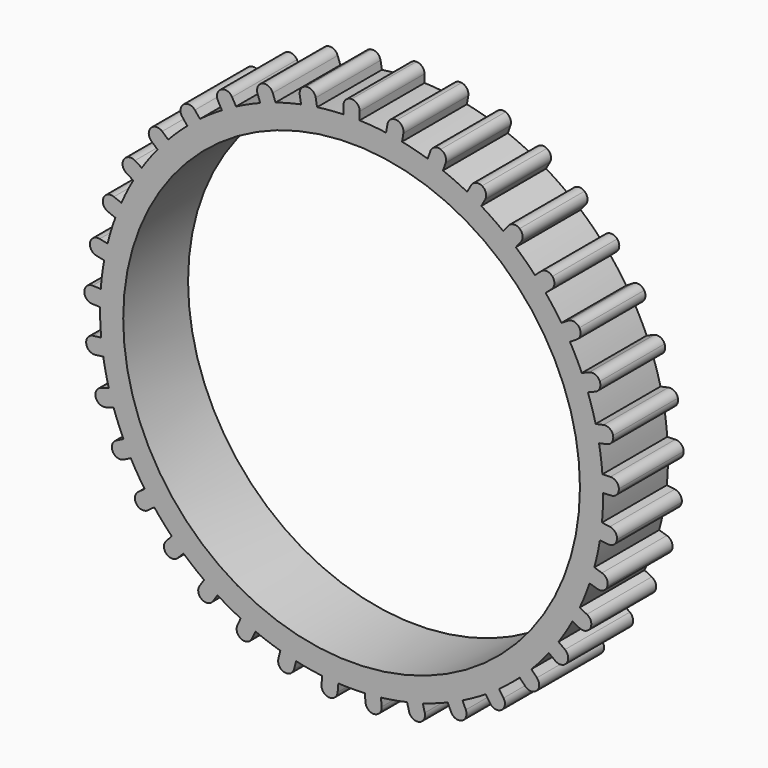
from build123d import *

# Parameters (mm, degrees)
F0_R     = 14.085722
F1_DEPTH = 5


with BuildPart() as f1:
    # F0 (on Front) → F1 (new body)
    with BuildSketch(Plane.XZ):
        with BuildLine():
            Line((-14.069211, 3.543627), (-15.052334, 3.755506))
            ThreePointArc((-15.052334, 3.755506), (-15.165552, 3.268427), (-15.263013, 2.777951))
            Line((-15.263013, 2.777951), (-14.279891, 2.566072))
            Line((-14.279891, 2.566072), (-14.069211, 3.543627))
        make_face()
        with BuildLine():
            ThreePointArc((15.513755, 0), (15.513552, 0.079266), (15.512945, 0.158531))
            Line((15.512945, 0.158531), (14.508156, 0.115848))
            Line((14.508156, 0.115848), (14.465714, 1.114947))
            Line((14.465714, 1.114947), (15.470504, 1.15763))
            ThreePointArc((15.470504, 1.15763), (15.3881, 1.970523), (15.263013, 2.777951))
            Line((15.263013, 2.777951), (14.279891, 2.566072))
            Line((14.279891, 2.566072), (14.069211, 3.543627))
            Line((14.069211, 3.543627), (15.052334, 3.755506))
            ThreePointArc((15.052334, 3.755506), (14.833736, 4.542781), (14.573993, 5.317454))
            Line((14.573993, 5.317454), (13.640819, 4.942474))
            Line((13.640819, 4.942474), (13.267963, 5.870363))
            Line((13.267963, 5.870363), (14.201136, 6.245343))
            ThreePointArc((14.201136, 6.245343), (13.852633, 6.984351), (13.465705, 7.703984))
            Line((13.465705, 7.703984), (12.609326, 7.176691))
            Line((12.609326, 7.176691), (12.085019, 8.02822))
            Line((12.085019, 8.02822), (12.941398, 8.555514))
            ThreePointArc((12.941398, 8.555514), (12.473014, 9.224993), (11.970033, 9.868885))
            Line((11.970033, 9.868885), (11.215086, 9.204447))
            Line((11.215086, 9.204447), (10.554411, 9.95512))
            Line((10.554411, 9.95512), (11.309359, 10.619557))
            ThreePointArc((11.309359, 10.619557), (10.73457, 11.20025), (10.130006, 11.749875))
            Line((10.130006, 11.749875), (9.498208, 10.967408))
            Line((9.498208, 10.967408), (8.720172, 11.595628))
            Line((8.720172, 11.595628), (9.35197, 12.378095))
            ThreePointArc((9.35197, 12.378095), (8.687312, 12.853296), (7.998556, 13.292843))
            Line((7.998556, 13.292843), (7.508084, 12.414857))
            Line((7.508084, 12.414857), (6.63507, 12.902552))
            Line((6.63507, 12.902552), (7.125542, 13.780538))
            ThreePointArc((7.125542, 13.780538), (6.390135, 14.136575), (5.637003, 14.453401))
            Line((5.637003, 14.453401), (5.301966, 13.505153))
            Line((5.301966, 13.505153), (4.359088, 13.838293))
            Line((4.359088, 13.838293), (4.694125, 14.78654))
            ThreePointArc((4.694125, 14.78654), (3.909126, 15.013172), (3.113283, 15.19816))
            Line((3.113283, 15.19816), (2.94332, 14.20693))
            Line((2.94332, 14.20693), (1.957704, 14.375931))
            Line((1.957704, 14.375931), (2.127667, 15.367161))
            ThreePointArc((2.127667, 15.367161), (1.315658, 15.457866), (0.5, 15.505695))
            Line((0.5, 15.505695), (0.5, 14.5))
            Line((0.5, 14.5), (-0.5, 14.5))
            Line((-0.5, 14.5), (-0.5, 15.505695))
            ThreePointArc((-0.5, 15.505695), (-1.315658, 15.457866), (-2.127667, 15.367161))
            Line((-2.127667, 15.367161), (-1.957704, 14.375931))
            Line((-1.957704, 14.375931), (-2.94332, 14.20693))
            Line((-2.94332, 14.20693), (-3.113283, 15.19816))
            ThreePointArc((-3.113283, 15.19816), (-3.909126, 15.013172), (-4.694125, 14.78654))
            Line((-4.694125, 14.78654), (-4.359088, 13.838293))
            Line((-4.359088, 13.838293), (-5.301966, 13.505153))
            Line((-5.301966, 13.505153), (-5.637003, 14.453401))
            ThreePointArc((-5.637003, 14.453401), (-6.390135, 14.136575), (-7.125542, 13.780538))
            Line((-7.125542, 13.780538), (-6.63507, 12.902552))
            Line((-6.63507, 12.902552), (-7.508084, 12.414857))
            Line((-7.508084, 12.414857), (-7.998556, 13.292843))
            ThreePointArc((-7.998556, 13.292843), (-8.687312, 12.853296), (-9.35197, 12.378095))
            Line((-9.35197, 12.378095), (-8.720172, 11.595628))
            Line((-8.720172, 11.595628), (-9.498208, 10.967408))
            Line((-9.498208, 10.967408), (-10.130006, 11.749875))
            ThreePointArc((-10.130006, 11.749875), (-10.73457, 11.20025), (-11.309359, 10.619557))
            Line((-11.309359, 10.619557), (-10.554411, 9.95512))
            Line((-10.554411, 9.95512), (-11.215086, 9.204447))
            Line((-11.215086, 9.204447), (-11.970033, 9.868885))
            ThreePointArc((-11.970033, 9.868885), (-12.473014, 9.224993), (-12.941398, 8.555514))
            Line((-12.941398, 8.555514), (-12.085019, 8.02822))
            Line((-12.085019, 8.02822), (-12.609326, 7.176691))
            Line((-12.609326, 7.176691), (-13.465705, 7.703984))
            ThreePointArc((-13.465705, 7.703984), (-13.852633, 6.984351), (-14.201136, 6.245343))
            Line((-14.201136, 6.245343), (-13.267963, 5.870363))
            Line((-13.267963, 5.870363), (-13.640819, 4.942474))
            Line((-13.640819, 4.942474), (-14.573993, 5.317454))
            ThreePointArc((-14.573993, 5.317454), (-14.833736, 4.542781), (-15.052334, 3.755506))
            Line((-15.052334, 3.755506), (-14.069211, 3.543627))
            Line((-14.069211, 3.543627), (-14.279891, 2.566072))
            Line((-14.279891, 2.566072), (-15.263013, 2.777951))
            ThreePointArc((-15.263013, 2.777951), (-15.3881, 1.970523), (-15.470504, 1.15763))
            Line((-15.470504, 1.15763), (-14.465714, 1.114947))
            Line((-14.465714, 1.114947), (-14.508156, 0.115848))
            Line((-14.508156, 0.115848), (-15.512945, 0.158531))
            ThreePointArc((-15.512945, 0.158531), (-15.499776, -0.658422), (-15.443615, -1.473549))
            Line((-15.443615, -1.473549), (-14.446065, -1.345808))
            Line((-14.446065, -1.345808), (-14.319047, -2.337709))
            Line((-14.319047, -2.337709), (-15.316597, -2.46545))
            ThreePointArc((-15.316597, -2.46545), (-15.165552, -3.268427), (-14.972442, -4.062337))
            Line((-14.972442, -4.062337), (-14.010829, -3.767847))
            Line((-14.010829, -3.767847), (-13.718006, -4.724014))
            Line((-13.718006, -4.724014), (-14.679619, -5.018504))
            ThreePointArc((-14.679619, -5.018504), (-14.395043, -5.784404), (-14.070538, -6.534259))
            Line((-14.070538, -6.534259), (-13.172527, -6.081491))
            Line((-13.172527, -6.081491), (-12.722323, -6.974417))
            Line((-12.722323, -6.974417), (-13.620335, -7.427185))
            ThreePointArc((-13.620335, -7.427185), (-13.210414, -8.133975), (-12.763851, -8.818202))
            Line((-12.763851, -8.818202), (-11.955275, -8.220182))
            Line((-11.955275, -8.220182), (-11.360642, -9.02418))
            Line((-11.360642, -9.02418), (-12.169218, -9.622199))
            ThreePointArc((-12.169218, -9.622199), (-11.645746, -10.249546), (-11.089971, -10.848462))
            Line((-11.089971, -10.848462), (-10.394092, -10.122394))
            Line((-10.394092, -10.122394), (-9.672136, -10.814333))
            Line((-9.672136, -10.814333), (-10.368015, -11.540401))
            ThreePointArc((-10.368015, -11.540401), (-9.746051, -12.070256), (-9.097053, -12.566631))
            Line((-9.097053, -12.566631), (-8.533889, -11.733403))
            Line((-8.533889, -11.733403), (-7.70538, -12.293377))
            Line((-7.70538, -12.293377), (-8.268544, -13.126606))
            ThreePointArc((-8.268544, -13.126606), (-7.56598, -13.543727), (-6.84243, -13.923281))
            Line((-6.84243, -13.923281), (-6.428182, -13.006862))
            Line((-6.428182, -13.006862), (-5.516954, -13.418764))
            Line((-5.516954, -13.418764), (-5.931201, -14.335182))
            ThreePointArc((-5.931201, -14.335182), (-5.168249, -14.62757), (-4.390962, -14.879383))
            Line((-4.390962, -14.879383), (-4.137548, -13.906139))
            Line((-4.137548, -13.906139), (-3.169815, -14.158117))
            Line((-3.169815, -14.158117), (-3.423229, -15.131361))
            ThreePointArc((-3.423229, -15.131361), (-2.621837, -15.290604), (-1.813174, -15.407433))
            Line((-1.813174, -15.407433), (-1.727885, -14.405361))
            Line((-1.727885, -14.405361), (-0.731487, -14.490167))
            Line((-0.731487, -14.490167), (-0.816776, -15.492239))
            ThreePointArc((-0.816776, -15.492239), (0, -15.513755), (0.816776, -15.492239))
            Line((0.816776, -15.492239), (0.731487, -14.490167))
            Line((0.731487, -14.490167), (1.727885, -14.405361))
            Line((1.727885, -14.405361), (1.813174, -15.407433))
            ThreePointArc((1.813174, -15.407433), (2.621837, -15.290604), (3.423229, -15.131361))
            Line((3.423229, -15.131361), (3.169815, -14.158117))
            Line((3.169815, -14.158117), (4.137548, -13.906139))
            Line((4.137548, -13.906139), (4.390962, -14.879383))
            ThreePointArc((4.390962, -14.879383), (5.168249, -14.62757), (5.931201, -14.335182))
            Line((5.931201, -14.335182), (5.516954, -13.418764))
            Line((5.516954, -13.418764), (6.428182, -13.006862))
            Line((6.428182, -13.006862), (6.84243, -13.923281))
            ThreePointArc((6.84243, -13.923281), (7.56598, -13.543727), (8.268544, -13.126606))
            Line((8.268544, -13.126606), (7.70538, -12.293377))
            Line((7.70538, -12.293377), (8.533889, -11.733403))
            Line((8.533889, -11.733403), (9.097053, -12.566631))
            ThreePointArc((9.097053, -12.566631), (9.746051, -12.070256), (10.368015, -11.540401))
            Line((10.368015, -11.540401), (9.672136, -10.814333))
            Line((9.672136, -10.814333), (10.394092, -10.122394))
            Line((10.394092, -10.122394), (11.089971, -10.848462))
            ThreePointArc((11.089971, -10.848462), (11.645746, -10.249546), (12.169218, -9.622199))
            Line((12.169218, -9.622199), (11.360642, -9.02418))
            Line((11.360642, -9.02418), (11.955275, -8.220182))
            Line((11.955275, -8.220182), (12.763851, -8.818202))
            ThreePointArc((12.763851, -8.818202), (13.210414, -8.133975), (13.620335, -7.427185))
            Line((13.620335, -7.427185), (12.722323, -6.974417))
            Line((12.722323, -6.974417), (13.172527, -6.081491))
            Line((13.172527, -6.081491), (14.070538, -6.534259))
            ThreePointArc((14.070538, -6.534259), (14.395043, -5.784404), (14.679619, -5.018504))
            Line((14.679619, -5.018504), (13.718006, -4.724014))
            Line((13.718006, -4.724014), (14.010829, -3.767847))
            Line((14.010829, -3.767847), (14.972442, -4.062337))
            ThreePointArc((14.972442, -4.062337), (15.165552, -3.268427), (15.316597, -2.46545))
            Line((15.316597, -2.46545), (14.319047, -2.337709))
            Line((14.319047, -2.337709), (14.446065, -1.345808))
            Line((14.446065, -1.345808), (15.443615, -1.473549))
            ThreePointArc((15.443615, -1.473549), (15.49621, -0.737609), (15.513755, 0))
        make_face()
        Circle(F0_R, mode=Mode.SUBTRACT)
        with BuildLine():
            Line((-13.267963, 5.870363), (-14.201136, 6.245343))
            ThreePointArc((-14.201136, 6.245343), (-14.395043, 5.784404), (-14.573993, 5.317454))
            Line((-14.573993, 5.317454), (-13.640819, 4.942474))
            Line((-13.640819, 4.942474), (-13.267963, 5.870363))
        make_face()
        with BuildLine():
            ThreePointArc((-14.659796, 6.429648), (-15.042458, 6.425587), (-15.310169, 6.152132))
            ThreePointArc((-15.310169, 6.152132), (-15.306107, 5.76947), (-15.032653, 5.501759))
            Line((-15.032653, 5.501759), (-14.573993, 5.317454))
            ThreePointArc((-14.573993, 5.317454), (-14.395043, 5.784404), (-14.201136, 6.245343))
            Line((-14.201136, 6.245343), (-14.659796, 6.429648))
        make_face()
        with BuildLine():
            ThreePointArc((-15.535544, 3.859646), (-15.912015, 3.790973), (-16.129661, 3.476208))
            ThreePointArc((-16.129661, 3.476208), (-16.060988, 3.099737), (-15.746223, 2.882091))
            Line((-15.746223, 2.882091), (-15.263013, 2.777951))
            ThreePointArc((-15.263013, 2.777951), (-15.165552, 3.268427), (-15.052334, 3.755506))
            Line((-15.052334, 3.755506), (-15.535544, 3.859646))
        make_face()
        with BuildLine():
            ThreePointArc((-13.362313, 8.814681), (-13.740157, 8.875348), (-14.050231, 8.65107))
            ThreePointArc((-14.050231, 8.65107), (-14.110898, 8.273226), (-13.88662, 7.963152))
            Line((-13.88662, 7.963152), (-13.465705, 7.703984))
            ThreePointArc((-13.465705, 7.703984), (-13.210414, 8.133975), (-12.941398, 8.555514))
            Line((-12.941398, 8.555514), (-13.362313, 8.814681))
        make_face()
        with BuildLine():
            Line((-12.085019, 8.02822), (-12.941398, 8.555514))
            ThreePointArc((-12.941398, 8.555514), (-13.210414, 8.133975), (-13.465705, 7.703984))
            Line((-13.465705, 7.703984), (-12.609326, 7.176691))
            Line((-12.609326, 7.176691), (-12.085019, 8.02822))
        make_face()
        with BuildLine():
            Line((-10.554411, 9.95512), (-11.309359, 10.619557))
            ThreePointArc((-11.309359, 10.619557), (-11.645746, 10.249546), (-11.970033, 9.868885))
            Line((-11.970033, 9.868885), (-11.215086, 9.204447))
            Line((-11.215086, 9.204447), (-10.554411, 9.95512))
        make_face()
        with BuildLine():
            ThreePointArc((-11.68042, 10.946132), (-12.042576, 11.069782), (-12.386093, 10.901133))
            ThreePointArc((-12.386093, 10.901133), (-12.509743, 10.538977), (-12.341094, 10.195459))
            Line((-12.341094, 10.195459), (-11.970033, 9.868885))
            ThreePointArc((-11.970033, 9.868885), (-11.645746, 10.249546), (-11.309359, 10.619557))
            Line((-11.309359, 10.619557), (-11.68042, 10.946132))
        make_face()
        with BuildLine():
            ThreePointArc((-9.662502, 12.762682), (-9.998552, 12.945759), (-10.36563, 12.83759))
            ThreePointArc((-10.36563, 12.83759), (-10.548706, 12.50154), (-10.440538, 12.134462))
            Line((-10.440538, 12.134462), (-10.130006, 11.749875))
            ThreePointArc((-10.130006, 11.749875), (-9.746051, 12.070256), (-9.35197, 12.378095))
            Line((-9.35197, 12.378095), (-9.662502, 12.762682))
        make_face()
        with BuildLine():
            Line((-8.720172, 11.595628), (-9.35197, 12.378095))
            ThreePointArc((-9.35197, 12.378095), (-9.746051, 12.070256), (-10.130006, 11.749875))
            Line((-10.130006, 11.749875), (-9.498208, 10.967408))
            Line((-9.498208, 10.967408), (-8.720172, 11.595628))
        make_face()
        with BuildLine():
            Line((-6.63507, 12.902552), (-7.125542, 13.780538))
            ThreePointArc((-7.125542, 13.780538), (-7.56598, 13.543727), (-7.998556, 13.292843))
            Line((-7.998556, 13.292843), (-7.508084, 12.414857))
            Line((-7.508084, 12.414857), (-6.63507, 12.902552))
        make_face()
        with BuildLine():
            ThreePointArc((-7.366612, 14.212073), (-7.666888, 14.449309), (-8.046967, 14.404733))
            ThreePointArc((-8.046967, 14.404733), (-8.284202, 14.104457), (-8.239626, 13.724378))
            Line((-8.239626, 13.724378), (-7.998556, 13.292843))
            ThreePointArc((-7.998556, 13.292843), (-7.56598, 13.543727), (-7.125542, 13.780538))
            Line((-7.125542, 13.780538), (-7.366612, 14.212073))
        make_face()
        with BuildLine():
            ThreePointArc((-4.858798, 15.252609), (-5.114662, 15.537179), (-5.496807, 15.557478))
            ThreePointArc((-5.496807, 15.557478), (-5.781377, 15.301614), (-5.801675, 14.919469))
            Line((-5.801675, 14.919469), (-5.637003, 14.453401))
            ThreePointArc((-5.637003, 14.453401), (-5.168249, 14.62757), (-4.694125, 14.78654))
            Line((-4.694125, 14.78654), (-4.858798, 15.252609))
        make_face()
        with BuildLine():
            Line((-4.359088, 13.838293), (-4.694125, 14.78654))
            ThreePointArc((-4.694125, 14.78654), (-5.168249, 14.62757), (-5.637003, 14.453401))
            Line((-5.637003, 14.453401), (-5.301966, 13.505153))
            Line((-5.301966, 13.505153), (-4.359088, 13.838293))
        make_face()
        with BuildLine():
            Line((-1.957704, 14.375931), (-2.127667, 15.367161))
            ThreePointArc((-2.127667, 15.367161), (-2.621837, 15.290604), (-3.113283, 15.19816))
            Line((-3.113283, 15.19816), (-2.94332, 14.20693))
            Line((-2.94332, 14.20693), (-1.957704, 14.375931))
        make_face()
        with BuildLine():
            ThreePointArc((-2.211205, 15.854355), (-2.415296, 16.178073), (-2.788514, 16.262663))
            ThreePointArc((-2.788514, 16.262663), (-3.112232, 16.058572), (-3.196821, 15.685354))
            Line((-3.196821, 15.685354), (-3.113283, 15.19816))
            ThreePointArc((-3.113283, 15.19816), (-2.621837, 15.290604), (-2.127667, 15.367161))
            Line((-2.127667, 15.367161), (-2.211205, 15.854355))
        make_face()
        with BuildLine():
            ThreePointArc((0.5, 16), (0.353553, 16.353553), (0, 16.5))
            ThreePointArc((0, 16.5), (-0.353553, 16.353553), (-0.5, 16))
            Line((-0.5, 16), (-0.5, 15.505695))
            ThreePointArc((-0.5, 15.505695), (0, 15.513755), (0.5, 15.505695))
            Line((0.5, 15.505695), (0.5, 16))
        make_face()
        with BuildLine():
            ThreePointArc((0.5, 15.505695), (0, 15.513755), (-0.5, 15.505695))
            Line((-0.5, 15.505695), (-0.5, 14.5))
            Line((-0.5, 14.5), (0.5, 14.5))
            Line((0.5, 14.5), (0.5, 15.505695))
        make_face()
        with BuildLine():
            Line((2.94332, 14.20693), (3.113283, 15.19816))
            ThreePointArc((3.113283, 15.19816), (2.621837, 15.290604), (2.127667, 15.367161))
            Line((2.127667, 15.367161), (1.957704, 14.375931))
            Line((1.957704, 14.375931), (2.94332, 14.20693))
        make_face()
        with BuildLine():
            ThreePointArc((3.196821, 15.685354), (3.112232, 16.058572), (2.788514, 16.262663))
            ThreePointArc((2.788514, 16.262663), (2.415296, 16.178073), (2.211205, 15.854355))
            Line((2.211205, 15.854355), (2.127667, 15.367161))
            ThreePointArc((2.127667, 15.367161), (2.621837, 15.290604), (3.113283, 15.19816))
            Line((3.113283, 15.19816), (3.196821, 15.685354))
        make_face()
        with BuildLine():
            ThreePointArc((5.801675, 14.919469), (5.781377, 15.301614), (5.496807, 15.557478))
            ThreePointArc((5.496807, 15.557478), (5.114662, 15.537179), (4.858798, 15.252609))
            Line((4.858798, 15.252609), (4.694125, 14.78654))
            ThreePointArc((4.694125, 14.78654), (5.168249, 14.62757), (5.637003, 14.453401))
            Line((5.637003, 14.453401), (5.801675, 14.919469))
        make_face()
        with BuildLine():
            Line((5.301966, 13.505153), (5.637003, 14.453401))
            ThreePointArc((5.637003, 14.453401), (5.168249, 14.62757), (4.694125, 14.78654))
            Line((4.694125, 14.78654), (4.359088, 13.838293))
            Line((4.359088, 13.838293), (5.301966, 13.505153))
        make_face()
        with BuildLine():
            Line((7.508084, 12.414857), (7.998556, 13.292843))
            ThreePointArc((7.998556, 13.292843), (7.56598, 13.543727), (7.125542, 13.780538))
            Line((7.125542, 13.780538), (6.63507, 12.902552))
            Line((6.63507, 12.902552), (7.508084, 12.414857))
        make_face()
        with BuildLine():
            ThreePointArc((8.239626, 13.724378), (8.284202, 14.104457), (8.046967, 14.404733))
            ThreePointArc((8.046967, 14.404733), (7.666888, 14.449309), (7.366612, 14.212073))
            Line((7.366612, 14.212073), (7.125542, 13.780538))
            ThreePointArc((7.125542, 13.780538), (7.56598, 13.543727), (7.998556, 13.292843))
            Line((7.998556, 13.292843), (8.239626, 13.724378))
        make_face()
        with BuildLine():
            ThreePointArc((10.440538, 12.134462), (10.548706, 12.50154), (10.36563, 12.83759))
            ThreePointArc((10.36563, 12.83759), (9.998552, 12.945759), (9.662502, 12.762682))
            Line((9.662502, 12.762682), (9.35197, 12.378095))
            ThreePointArc((9.35197, 12.378095), (9.746051, 12.070256), (10.130006, 11.749875))
            Line((10.130006, 11.749875), (10.440538, 12.134462))
        make_face()
        with BuildLine():
            Line((9.498208, 10.967408), (10.130006, 11.749875))
            ThreePointArc((10.130006, 11.749875), (9.746051, 12.070256), (9.35197, 12.378095))
            Line((9.35197, 12.378095), (8.720172, 11.595628))
            Line((8.720172, 11.595628), (9.498208, 10.967408))
        make_face()
        with BuildLine():
            Line((11.215086, 9.204447), (11.970033, 9.868885))
            ThreePointArc((11.970033, 9.868885), (11.645746, 10.249546), (11.309359, 10.619557))
            Line((11.309359, 10.619557), (10.554411, 9.95512))
            Line((10.554411, 9.95512), (11.215086, 9.204447))
        make_face()
        with BuildLine():
            ThreePointArc((12.341094, 10.195459), (12.509743, 10.538977), (12.386093, 10.901133))
            ThreePointArc((12.386093, 10.901133), (12.042576, 11.069782), (11.68042, 10.946132))
            Line((11.68042, 10.946132), (11.309359, 10.619557))
            ThreePointArc((11.309359, 10.619557), (11.645746, 10.249546), (11.970033, 9.868885))
            Line((11.970033, 9.868885), (12.341094, 10.195459))
        make_face()
        with BuildLine():
            ThreePointArc((13.88662, 7.963152), (14.110898, 8.273226), (14.050231, 8.65107))
            ThreePointArc((14.050231, 8.65107), (13.740157, 8.875348), (13.362313, 8.814681))
            Line((13.362313, 8.814681), (12.941398, 8.555514))
            ThreePointArc((12.941398, 8.555514), (13.210414, 8.133975), (13.465705, 7.703984))
            Line((13.465705, 7.703984), (13.88662, 7.963152))
        make_face()
        with BuildLine():
            Line((12.609326, 7.176691), (13.465705, 7.703984))
            ThreePointArc((13.465705, 7.703984), (13.210414, 8.133975), (12.941398, 8.555514))
            Line((12.941398, 8.555514), (12.085019, 8.02822))
            Line((12.085019, 8.02822), (12.609326, 7.176691))
        make_face()
        with BuildLine():
            Line((-14.465714, 1.114947), (-15.470504, 1.15763))
            ThreePointArc((-15.470504, 1.15763), (-15.499776, 0.658422), (-15.512945, 0.158531))
            Line((-15.512945, 0.158531), (-14.508156, 0.115848))
            Line((-14.508156, 0.115848), (-14.465714, 1.114947))
        make_face()
        with BuildLine():
            ThreePointArc((-15.964363, 1.178609), (-16.323813, 1.047299), (-16.485133, 0.70028))
            ThreePointArc((-16.485133, 0.70028), (-16.353824, 0.34083), (-16.006804, 0.17951))
            Line((-16.006804, 0.17951), (-15.512945, 0.158531))
            ThreePointArc((-15.512945, 0.158531), (-15.499776, 0.658422), (-15.470504, 1.15763))
            Line((-15.470504, 1.15763), (-15.964363, 1.178609))
        make_face()
        with BuildLine():
            ThreePointArc((-15.933916, -1.536335), (-16.266004, -1.726503), (-16.366357, -2.095794))
            ThreePointArc((-16.366357, -2.095794), (-16.176189, -2.427882), (-15.806898, -2.528235))
            Line((-15.806898, -2.528235), (-15.316597, -2.46545))
            ThreePointArc((-15.316597, -2.46545), (-15.3881, -1.970523), (-15.443615, -1.473549))
            Line((-15.443615, -1.473549), (-15.933916, -1.536335))
        make_face()
        with BuildLine():
            Line((-14.446065, -1.345808), (-15.443615, -1.473549))
            ThreePointArc((-15.443615, -1.473549), (-15.3881, -1.970523), (-15.316597, -2.46545))
            Line((-15.316597, -2.46545), (-14.319047, -2.337709))
            Line((-14.319047, -2.337709), (-14.446065, -1.345808))
        make_face()
        with BuildLine():
            Line((-14.010829, -3.767847), (-14.972442, -4.062337))
            ThreePointArc((-14.972442, -4.062337), (-14.833736, -4.542781), (-14.679619, -5.018504))
            Line((-14.679619, -5.018504), (-13.718006, -4.724014))
            Line((-13.718006, -4.724014), (-14.010829, -3.767847))
        make_face()
        with BuildLine():
            ThreePointArc((-15.445079, -4.207081), (-15.740252, -4.450637), (-15.776751, -4.831576))
            ThreePointArc((-15.776751, -4.831576), (-15.533195, -5.126749), (-15.152256, -5.163248))
            Line((-15.152256, -5.163248), (-14.679619, -5.018504))
            ThreePointArc((-14.679619, -5.018504), (-14.833736, -4.542781), (-14.972442, -4.062337))
            Line((-14.972442, -4.062337), (-15.445079, -4.207081))
        make_face()
        with BuildLine():
            ThreePointArc((-14.511916, -6.756797), (-14.761682, -7.046734), (-14.733277, -7.428362))
            ThreePointArc((-14.733277, -7.428362), (-14.44334, -7.678128), (-14.061712, -7.649723))
            Line((-14.061712, -7.649723), (-13.620335, -7.427185))
            ThreePointArc((-13.620335, -7.427185), (-13.852633, -6.984351), (-14.070538, -6.534259))
            Line((-14.070538, -6.534259), (-14.511916, -6.756797))
        make_face()
        with BuildLine():
            Line((-13.172527, -6.081491), (-14.070538, -6.534259))
            ThreePointArc((-14.070538, -6.534259), (-13.852633, -6.984351), (-13.620335, -7.427185))
            Line((-13.620335, -7.427185), (-12.722323, -6.974417))
            Line((-12.722323, -6.974417), (-13.172527, -6.081491))
        make_face()
        with BuildLine():
            Line((-11.955275, -8.220182), (-12.763851, -8.818202))
            ThreePointArc((-12.763851, -8.818202), (-12.473014, -9.224993), (-12.169218, -9.622199))
            Line((-12.169218, -9.622199), (-11.360642, -9.02418))
            Line((-11.360642, -9.02418), (-11.955275, -8.220182))
        make_face()
        with BuildLine():
            ThreePointArc((-13.161271, -9.112132), (-13.358445, -9.440109), (-13.265953, -9.811447))
            ThreePointArc((-13.265953, -9.811447), (-12.937975, -10.008621), (-12.566637, -9.916129))
            Line((-12.566637, -9.916129), (-12.169218, -9.622199))
            ThreePointArc((-12.169218, -9.622199), (-12.473014, -9.224993), (-12.763851, -8.818202))
            Line((-12.763851, -8.818202), (-13.161271, -9.112132))
        make_face()
        with BuildLine():
            ThreePointArc((-11.432, -11.205328), (-11.570909, -11.56191), (-11.416991, -11.912276))
            ThreePointArc((-11.416991, -11.912276), (-11.060409, -12.051185), (-10.710044, -11.897267))
            Line((-10.710044, -11.897267), (-10.368015, -11.540401))
            ThreePointArc((-10.368015, -11.540401), (-10.73457, -11.20025), (-11.089971, -10.848462))
            Line((-11.089971, -10.848462), (-11.432, -11.205328))
        make_face()
        with BuildLine():
            Line((-10.394092, -10.122394), (-11.089971, -10.848462))
            ThreePointArc((-11.089971, -10.848462), (-10.73457, -11.20025), (-10.368015, -11.540401))
            Line((-10.368015, -11.540401), (-9.672136, -10.814333))
            Line((-9.672136, -10.814333), (-10.394092, -10.122394))
        make_face()
        with BuildLine():
            Line((-8.533889, -11.733403), (-9.097053, -12.566631))
            ThreePointArc((-9.097053, -12.566631), (-8.687312, -12.853296), (-8.268544, -13.126606))
            Line((-8.268544, -13.126606), (-7.70538, -12.293377))
            Line((-7.70538, -12.293377), (-8.533889, -11.733403))
        make_face()
        with BuildLine():
            ThreePointArc((-9.373851, -12.976167), (-9.4505, -13.351096), (-9.239584, -13.670409))
            ThreePointArc((-9.239584, -13.670409), (-8.864655, -13.747058), (-8.545342, -13.536142))
            Line((-8.545342, -13.536142), (-8.268544, -13.126606))
            ThreePointArc((-8.268544, -13.126606), (-8.687312, -12.853296), (-9.097053, -12.566631))
            Line((-9.097053, -12.566631), (-9.373851, -12.976167))
        make_face()
        with BuildLine():
            Line((-6.428182, -13.006862), (-6.84243, -13.923281))
            ThreePointArc((-6.84243, -13.923281), (-6.390135, -14.136575), (-5.931201, -14.335182))
            Line((-5.931201, -14.335182), (-5.516954, -13.418764))
            Line((-5.516954, -13.418764), (-6.428182, -13.006862))
        make_face()
        with BuildLine():
            ThreePointArc((-7.046034, -14.373705), (-7.058217, -14.756195), (-6.796371, -15.03527))
            ThreePointArc((-6.796371, -15.03527), (-6.413881, -15.047453), (-6.134806, -14.785606))
            Line((-6.134806, -14.785606), (-5.931201, -14.335182))
            ThreePointArc((-5.931201, -14.335182), (-6.390135, -14.136575), (-6.84243, -13.923281))
            Line((-6.84243, -13.923281), (-7.046034, -14.373705))
        make_face()
        with BuildLine():
            ThreePointArc((-4.515515, -15.357738), (-4.462882, -15.736785), (-4.157638, -15.967594))
            ThreePointArc((-4.157638, -15.967594), (-3.778591, -15.91496), (-3.547783, -15.609716))
            Line((-3.547783, -15.609716), (-3.423229, -15.131361))
            ThreePointArc((-3.423229, -15.131361), (-3.909126, -15.013172), (-4.390962, -14.879383))
            Line((-4.390962, -14.879383), (-4.515515, -15.357738))
        make_face()
        with BuildLine():
            Line((-4.137548, -13.906139), (-4.390962, -14.879383))
            ThreePointArc((-4.390962, -14.879383), (-3.909126, -15.013172), (-3.423229, -15.131361))
            Line((-3.423229, -15.131361), (-3.169815, -14.158117))
            Line((-3.169815, -14.158117), (-4.137548, -13.906139))
        make_face()
        with BuildLine():
            Line((-1.727885, -14.405361), (-1.813174, -15.407433))
            ThreePointArc((-1.813174, -15.407433), (-1.315658, -15.457866), (-0.816776, -15.492239))
            Line((-0.816776, -15.492239), (-0.731487, -14.490167))
            Line((-0.731487, -14.490167), (-1.727885, -14.405361))
        make_face()
        with BuildLine():
            ThreePointArc((-1.855094, -15.899957), (-1.739158, -16.264656), (-1.399298, -16.440559))
            ThreePointArc((-1.399298, -16.440559), (-1.034599, -16.324623), (-0.858696, -15.984763))
            Line((-0.858696, -15.984763), (-0.816776, -15.492239))
            ThreePointArc((-0.816776, -15.492239), (-1.315658, -15.457866), (-1.813174, -15.407433))
            Line((-1.813174, -15.407433), (-1.855094, -15.899957))
        make_face()
        with BuildLine():
            ThreePointArc((0.858696, -15.984763), (1.034599, -16.324623), (1.399298, -16.440559))
            ThreePointArc((1.399298, -16.440559), (1.739158, -16.264656), (1.855094, -15.899957))
            Line((1.855094, -15.899957), (1.813174, -15.407433))
            ThreePointArc((1.813174, -15.407433), (1.315658, -15.457866), (0.816776, -15.492239))
            Line((0.816776, -15.492239), (0.858696, -15.984763))
        make_face()
        with BuildLine():
            Line((0.731487, -14.490167), (0.816776, -15.492239))
            ThreePointArc((0.816776, -15.492239), (1.315658, -15.457866), (1.813174, -15.407433))
            Line((1.813174, -15.407433), (1.727885, -14.405361))
            Line((1.727885, -14.405361), (0.731487, -14.490167))
        make_face()
        with BuildLine():
            Line((3.169815, -14.158117), (3.423229, -15.131361))
            ThreePointArc((3.423229, -15.131361), (3.909126, -15.013172), (4.390962, -14.879383))
            Line((4.390962, -14.879383), (4.137548, -13.906139))
            Line((4.137548, -13.906139), (3.169815, -14.158117))
        make_face()
        with BuildLine():
            ThreePointArc((3.547783, -15.609716), (3.778591, -15.91496), (4.157638, -15.967594))
            ThreePointArc((4.157638, -15.967594), (4.462882, -15.736785), (4.515515, -15.357738))
            Line((4.515515, -15.357738), (4.390962, -14.879383))
            ThreePointArc((4.390962, -14.879383), (3.909126, -15.013172), (3.423229, -15.131361))
            Line((3.423229, -15.131361), (3.547783, -15.609716))
        make_face()
        with BuildLine():
            ThreePointArc((6.134806, -14.785606), (6.413881, -15.047453), (6.796371, -15.03527))
            ThreePointArc((6.796371, -15.03527), (7.058217, -14.756195), (7.046034, -14.373705))
            Line((7.046034, -14.373705), (6.84243, -13.923281))
            ThreePointArc((6.84243, -13.923281), (6.390135, -14.136575), (5.931201, -14.335182))
            Line((5.931201, -14.335182), (6.134806, -14.785606))
        make_face()
        with BuildLine():
            Line((5.516954, -13.418764), (5.931201, -14.335182))
            ThreePointArc((5.931201, -14.335182), (6.390135, -14.136575), (6.84243, -13.923281))
            Line((6.84243, -13.923281), (6.428182, -13.006862))
            Line((6.428182, -13.006862), (5.516954, -13.418764))
        make_face()
        with BuildLine():
            Line((7.70538, -12.293377), (8.268544, -13.126606))
            ThreePointArc((8.268544, -13.126606), (8.687312, -12.853296), (9.097053, -12.566631))
            Line((9.097053, -12.566631), (8.533889, -11.733403))
            Line((8.533889, -11.733403), (7.70538, -12.293377))
        make_face()
        with BuildLine():
            ThreePointArc((8.545342, -13.536142), (8.864655, -13.747058), (9.239584, -13.670409))
            ThreePointArc((9.239584, -13.670409), (9.4505, -13.351096), (9.373851, -12.976167))
            Line((9.373851, -12.976167), (9.097053, -12.566631))
            ThreePointArc((9.097053, -12.566631), (8.687312, -12.853296), (8.268544, -13.126606))
            Line((8.268544, -13.126606), (8.545342, -13.536142))
        make_face()
        with BuildLine():
            ThreePointArc((10.710044, -11.897267), (11.060409, -12.051185), (11.416991, -11.912276))
            ThreePointArc((11.416991, -11.912276), (11.570909, -11.56191), (11.432, -11.205328))
            Line((11.432, -11.205328), (11.089971, -10.848462))
            ThreePointArc((11.089971, -10.848462), (10.73457, -11.20025), (10.368015, -11.540401))
            Line((10.368015, -11.540401), (10.710044, -11.897267))
        make_face()
        with BuildLine():
            Line((9.672136, -10.814333), (10.368015, -11.540401))
            ThreePointArc((10.368015, -11.540401), (10.73457, -11.20025), (11.089971, -10.848462))
            Line((11.089971, -10.848462), (10.394092, -10.122394))
            Line((10.394092, -10.122394), (9.672136, -10.814333))
        make_face()
        with BuildLine():
            Line((11.360642, -9.02418), (12.169218, -9.622199))
            ThreePointArc((12.169218, -9.622199), (12.473014, -9.224993), (12.763851, -8.818202))
            Line((12.763851, -8.818202), (11.955275, -8.220182))
            Line((11.955275, -8.220182), (11.360642, -9.02418))
        make_face()
        with BuildLine():
            ThreePointArc((12.566637, -9.916129), (12.937975, -10.008621), (13.265953, -9.811447))
            ThreePointArc((13.265953, -9.811447), (13.358445, -9.440109), (13.161271, -9.112132))
            Line((13.161271, -9.112132), (12.763851, -8.818202))
            ThreePointArc((12.763851, -8.818202), (12.473014, -9.224993), (12.169218, -9.622199))
            Line((12.169218, -9.622199), (12.566637, -9.916129))
        make_face()
        with BuildLine():
            ThreePointArc((14.061712, -7.649723), (14.44334, -7.678128), (14.733277, -7.428362))
            ThreePointArc((14.733277, -7.428362), (14.761682, -7.046734), (14.511916, -6.756797))
            Line((14.511916, -6.756797), (14.070538, -6.534259))
            ThreePointArc((14.070538, -6.534259), (13.852633, -6.984351), (13.620335, -7.427185))
            Line((13.620335, -7.427185), (14.061712, -7.649723))
        make_face()
        with BuildLine():
            Line((12.722323, -6.974417), (13.620335, -7.427185))
            ThreePointArc((13.620335, -7.427185), (13.852633, -6.984351), (14.070538, -6.534259))
            Line((14.070538, -6.534259), (13.172527, -6.081491))
            Line((13.172527, -6.081491), (12.722323, -6.974417))
        make_face()
        with BuildLine():
            Line((13.718006, -4.724014), (14.679619, -5.018504))
            ThreePointArc((14.679619, -5.018504), (14.833736, -4.542781), (14.972442, -4.062337))
            Line((14.972442, -4.062337), (14.010829, -3.767847))
            Line((14.010829, -3.767847), (13.718006, -4.724014))
        make_face()
        with BuildLine():
            ThreePointArc((15.152256, -5.163248), (15.533195, -5.126749), (15.776751, -4.831576))
            ThreePointArc((15.776751, -4.831576), (15.740252, -4.450637), (15.445079, -4.207081))
            Line((15.445079, -4.207081), (14.972442, -4.062337))
            ThreePointArc((14.972442, -4.062337), (14.833736, -4.542781), (14.679619, -5.018504))
            Line((14.679619, -5.018504), (15.152256, -5.163248))
        make_face()
        with BuildLine():
            ThreePointArc((15.806898, -2.528235), (16.176189, -2.427882), (16.366357, -2.095794))
            ThreePointArc((16.366357, -2.095794), (16.266004, -1.726503), (15.933916, -1.536335))
            Line((15.933916, -1.536335), (15.443615, -1.473549))
            ThreePointArc((15.443615, -1.473549), (15.3881, -1.970523), (15.316597, -2.46545))
            Line((15.316597, -2.46545), (15.806898, -2.528235))
        make_face()
        with BuildLine():
            Line((14.319047, -2.337709), (15.316597, -2.46545))
            ThreePointArc((15.316597, -2.46545), (15.3881, -1.970523), (15.443615, -1.473549))
            Line((15.443615, -1.473549), (14.446065, -1.345808))
            Line((14.446065, -1.345808), (14.319047, -2.337709))
        make_face()
        with BuildLine():
            Line((14.508156, 0.115848), (15.512945, 0.158531))
            ThreePointArc((15.512945, 0.158531), (15.499776, 0.658422), (15.470504, 1.15763))
            Line((15.470504, 1.15763), (14.465714, 1.114947))
            Line((14.465714, 1.114947), (14.508156, 0.115848))
        make_face()
        with BuildLine():
            ThreePointArc((16.006804, 0.17951), (16.353824, 0.34083), (16.485133, 0.70028))
            ThreePointArc((16.485133, 0.70028), (16.323813, 1.047299), (15.964363, 1.178609))
            Line((15.964363, 1.178609), (15.470504, 1.15763))
            ThreePointArc((15.470504, 1.15763), (15.499776, 0.658422), (15.512945, 0.158531))
            Line((15.512945, 0.158531), (16.006804, 0.17951))
        make_face()
        with BuildLine():
            Line((14.279891, 2.566072), (15.263013, 2.777951))
            ThreePointArc((15.263013, 2.777951), (15.165552, 3.268427), (15.052334, 3.755506))
            Line((15.052334, 3.755506), (14.069211, 3.543627))
            Line((14.069211, 3.543627), (14.279891, 2.566072))
        make_face()
        with BuildLine():
            ThreePointArc((15.746223, 2.882091), (16.060988, 3.099737), (16.129661, 3.476208))
            ThreePointArc((16.129661, 3.476208), (15.912015, 3.790973), (15.535544, 3.859646))
            Line((15.535544, 3.859646), (15.052334, 3.755506))
            ThreePointArc((15.052334, 3.755506), (15.165552, 3.268427), (15.263013, 2.777951))
            Line((15.263013, 2.777951), (15.746223, 2.882091))
        make_face()
        with BuildLine():
            Line((13.640819, 4.942474), (14.573993, 5.317454))
            ThreePointArc((14.573993, 5.317454), (14.395043, 5.784404), (14.201136, 6.245343))
            Line((14.201136, 6.245343), (13.267963, 5.870363))
            Line((13.267963, 5.870363), (13.640819, 4.942474))
        make_face()
        with BuildLine():
            ThreePointArc((15.032653, 5.501759), (15.306107, 5.76947), (15.310169, 6.152132))
            ThreePointArc((15.310169, 6.152132), (15.042458, 6.425587), (14.659796, 6.429648))
            Line((14.659796, 6.429648), (14.201136, 6.245343))
            ThreePointArc((14.201136, 6.245343), (14.395043, 5.784404), (14.573993, 5.317454))
            Line((14.573993, 5.317454), (15.032653, 5.501759))
        make_face()
    extrude(amount=F1_DEPTH)


solid = f1.part
